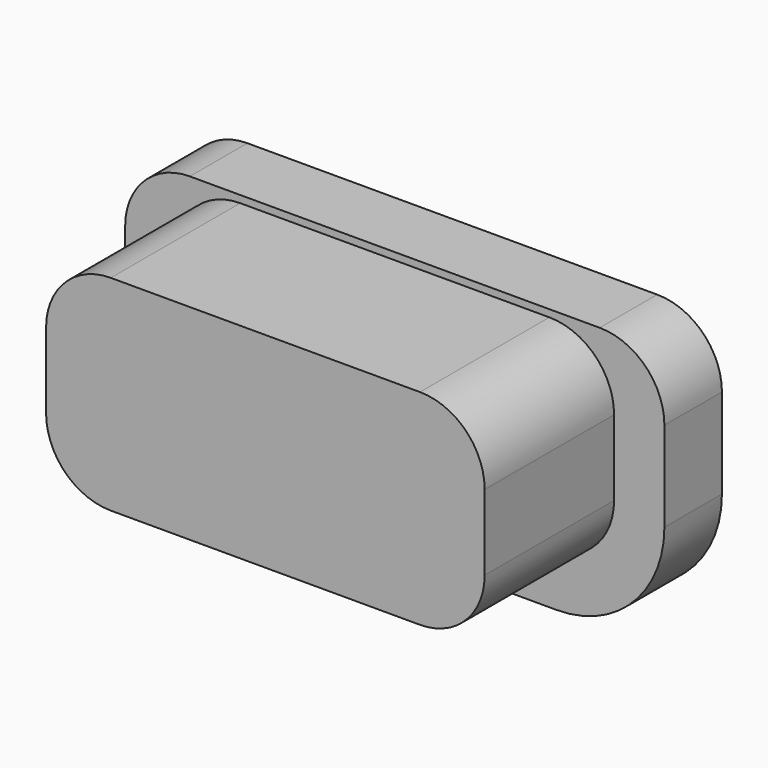
from build123d import *

# Parameters (mm, degrees)
EXTRUDE017_DEPTH = 1
EXTRUDE016_DEPTH = 2.25


with BuildPart() as extrude017:
    # Sketch017 → Extrude017 (new body)
    with BuildSketch(Plane.XZ):
        with BuildLine():
            ThreePointArc((11.7, 16.35), (11.063604, 16.086396), (10.8, 15.45))
            Line((10.8, 14.2), (10.8, 15.45))
            ThreePointArc((10.8, 14.2), (11.23934, 13.13934), (12.3, 12.7))
            Line((16.8, 12.7), (12.3, 12.7))
            ThreePointArc((16.8, 12.7), (17.86066, 13.13934), (18.3, 14.2))
            Line((18.3, 15.45), (18.3, 14.2))
            ThreePointArc((18.3, 15.45), (18.036396, 16.086396), (17.4, 16.35))
            Line((11.7, 16.35), (17.4, 16.35))
        make_face()
    extrude(amount=EXTRUDE017_DEPTH)


with BuildPart() as extrude017_1:
    # Extrude017 placement: moved
    add(extrude017.part.moved(Location((0, 3, 0))))


with BuildPart() as button002:
    # Sketch016 → Extrude016 (new body)
    with BuildSketch(Plane.XZ):
        with BuildLine():
            ThreePointArc((12.4, 16.25), (11.763604, 15.986396), (11.5, 15.35))
            Line((11.5, 14.3), (11.5, 15.35))
            ThreePointArc((11.5, 14.3), (11.763604, 13.663604), (12.4, 13.4))
            Line((16.7, 13.4), (12.4, 13.4))
            ThreePointArc((16.7, 13.4), (17.336396, 13.663604), (17.6, 14.3))
            Line((17.6, 15.35), (17.6, 14.3))
            ThreePointArc((17.6, 15.35), (17.336396, 15.986396), (16.7, 16.25))
            Line((12.4, 16.25), (16.7, 16.25))
        make_face()
    extrude(amount=EXTRUDE016_DEPTH)


with BuildPart() as button002_1:
    # Extrude016 placement: moved
    add(button002.part.moved(Location((0, 2, 0))))

    # Fusion021: union Extrude017
    add(extrude017_1.part)


solid = button002_1.part
